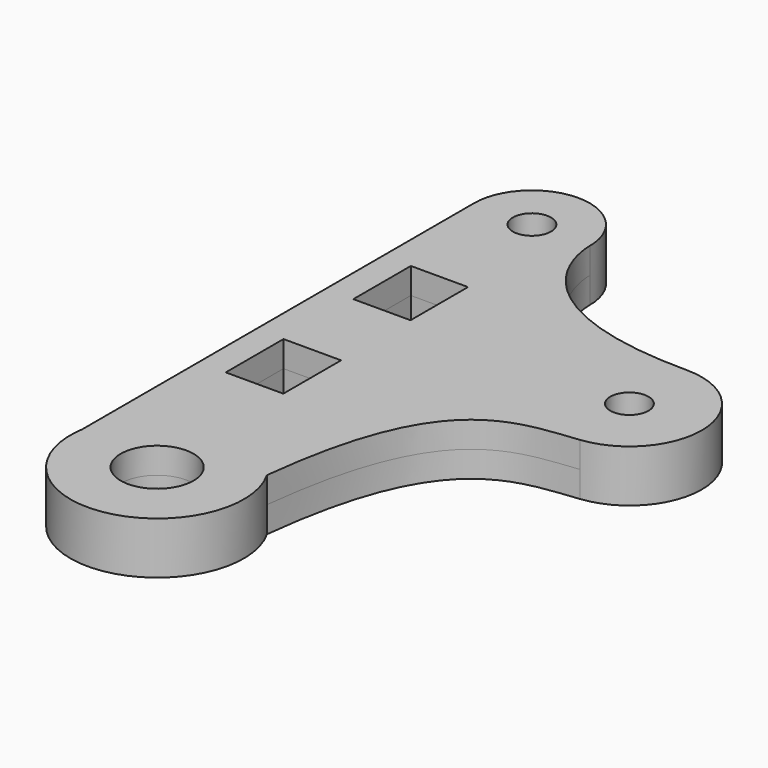
from build123d import *

# Parameters (mm, degrees)
F0_R     = 4
F0_W     = 6.321552
F0_H     = 7.925128
F0_W_2   = 6.275634
F0_H_2   = 7.892501
F0_R_2   = 2.0955
F1_DEPTH = 2.8575


with BuildPart() as f1:
    # F0 (on Top) → F1 (new body, symmetric)
    with BuildSketch(Plane.XY):
        with BuildLine():
            add(Edge.make_bspline(
                [(12.954, 16.3957), (-6.365684, 16.3957), (-8.001, 26.956277), (-8.001, 29.21)],
                knots=[0, 0, 0, 0, 24.562539, 24.562539, 24.562539, 24.562539], degree=3))
            ThreePointArc((-8.001, 29.21), (-14.351, 35.56), (-20.701, 29.21))
            Line((-20.701, 29.21), (-20.701, -24.552096))
            Line((-20.701, -24.552096), (-20.701, -27.517904))
            ThreePointArc((-20.701, -27.517904), (-8.132625, -35.020715), (-3.025715, -21.303))
            add(Edge.make_bspline(
                [(-3.025715, -21.303), (-0.614082, 0), (7.178541, -0.193844), (13.858566, 0.572411)],
                knots=[0, 0, 0, 0, 27.63354, 27.63354, 27.63354, 27.63354], degree=3))
            ThreePointArc((13.858566, 0.572411), (20.878562, 8.911221), (12.954, 16.3957))
        make_face()
        with Locations((-11.292141, -26.035)):
            Circle(F0_R, mode=Mode.SUBTRACT)
        with Locations((-14.536037, -4.655429)):
            Rectangle(F0_W, F0_H, mode=Mode.SUBTRACT)
        with Locations((-14.513078, 12.778385)):
            Rectangle(F0_W_2, F0_H_2, mode=Mode.SUBTRACT)
        with Locations((-14.351, 29.21)):
            Circle(F0_R_2, mode=Mode.SUBTRACT)
        with Locations((12.954, 8.4582)):
            Circle(F0_R_2, mode=Mode.SUBTRACT)
        with BuildLine():
            Line((-20.701, -27.517904), (-20.701, -24.552096))
            ThreePointArc((-20.701, -24.552096), (-20.817141, -26.035), (-20.701, -27.517904))
        make_face()
    extrude(amount=F1_DEPTH, both=True)


solid = f1.part
